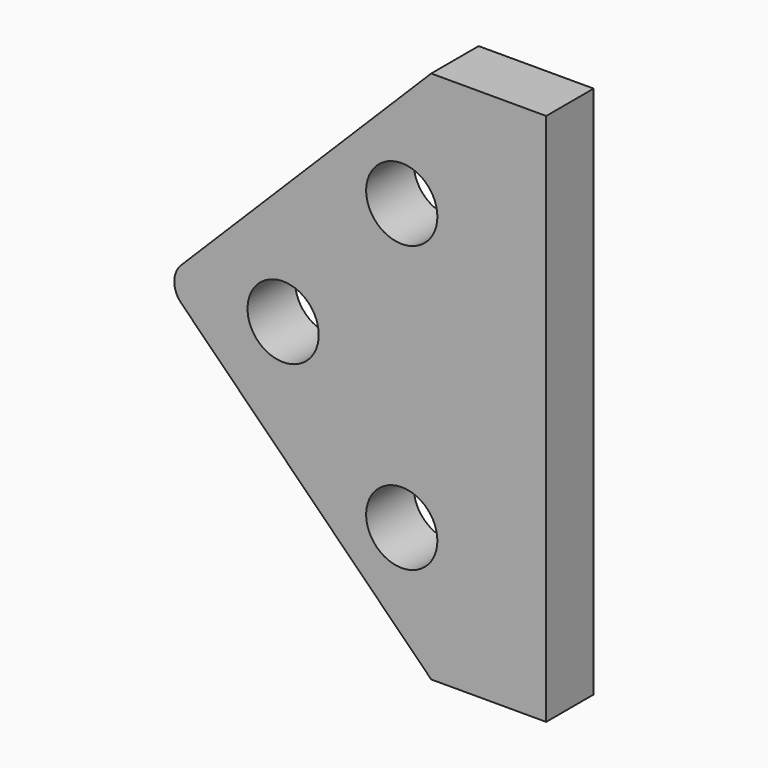
from build123d import *

# Parameters (mm, degrees)
F0_R     = 3
F1_DEPTH = 5


with BuildPart() as f1:
    # F0 (on Front) → F1 (new body)
    with BuildSketch(Plane.XZ):
        with BuildLine():
            Line((-18.764788, -9.348797), (-9.072434, -9.348797))
            Line((-9.072434, -9.348797), (-9.072434, 35.609812))
            Line((-9.072434, 35.609812), (-18.764788, 35.609812))
            Line((-18.764788, 35.609812), (-39.829773, 14.544717))
            ThreePointArc((-39.829773, 14.544717), (-40.415556, 13.130507), (-39.829773, 11.716297))
            Line((-39.829773, 11.716297), (-18.764788, -9.348797))
        make_face()
        with Locations((-31.243975, 13.130507)):
            Circle(F0_R, mode=Mode.SUBTRACT)
        with Locations((-21.243978, 1.109681)):
            Circle(F0_R, mode=Mode.SUBTRACT)
        with Locations((-21.243978, 25.15133)):
            Circle(F0_R, mode=Mode.SUBTRACT)
    extrude(amount=F1_DEPTH)


solid = f1.part
